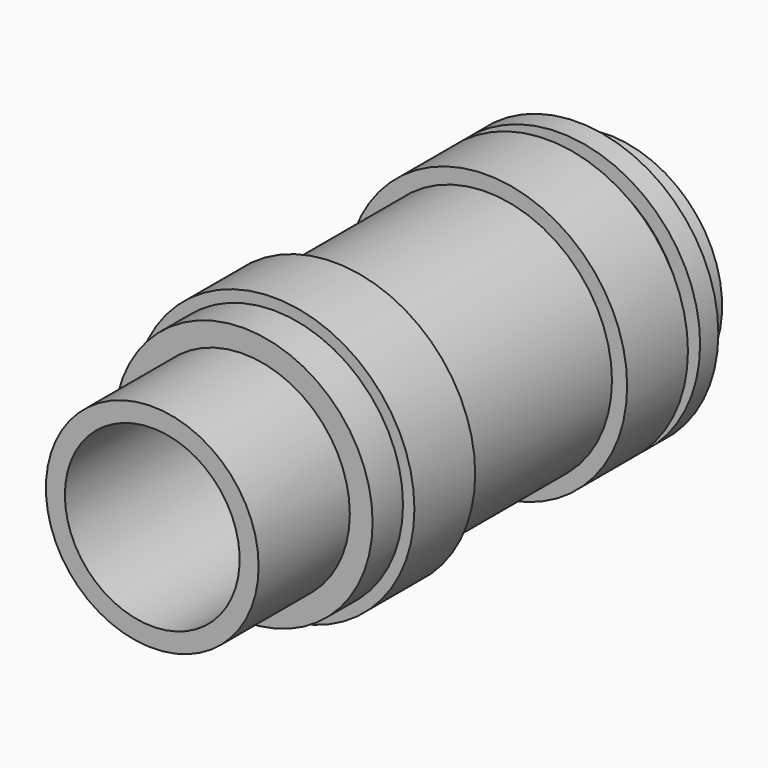
from build123d import *

# Parameters (mm, degrees)
F0_R      = 17
F1_DEPTH  = 5
F2_R      = 14
F3_DEPTH  = 15
F4_R      = 18.5
F5_DEPTH  = 10
F6_R      = 16.5
F7_DEPTH  = 35
F8_R      = 18.5
F9_DEPTH  = 10
F10_R     = 16.5
F11_DEPTH = 2
F12_R     = 18.5
F13_DEPTH = 3
F14_R     = 15
F15_DEPTH = 5
F16_R     = 11.5
F17_DEPTH = 136.4


with BuildPart() as f1:
    # F0 (on Front) → F1 (new body)
    with BuildSketch(Plane.XZ):
        Circle(F0_R)
    extrude(amount=F1_DEPTH)

    # F2 (on face) → F3 (join)
    with BuildSketch(Plane.XZ.offset(5)):
        Circle(F2_R)
    extrude(amount=F3_DEPTH)

    # F4 (on Front) → F5 (join)
    with BuildSketch(Plane.XZ):
        Circle(F4_R)
    extrude(amount=-F5_DEPTH)

    # F6 (on Front) → F7 (join)
    with BuildSketch(Plane.XZ):
        Circle(F6_R)
    extrude(amount=-F7_DEPTH)

    # F8 (on face) → F9 (join)
    with BuildSketch(Plane(origin=(0, 35, 0), x_dir=(-1, 0, 0), z_dir=(0, 1, 0))):
        Circle(F8_R)
    extrude(amount=F9_DEPTH)

    # F10 (on face) → F11 (join)
    with BuildSketch(Plane(origin=(0, 45, 0), x_dir=(-1, 0, 0), z_dir=(0, 1, 0))):
        Circle(F10_R)
    extrude(amount=F11_DEPTH)

    # F12 (on face) → F13 (join)
    with BuildSketch(Plane(origin=(0, 47, 0), x_dir=(-1, 0, 0), z_dir=(0, 1, 0))):
        Circle(F12_R)
    extrude(amount=F13_DEPTH)

    # F14 (on face) → F15 (join)
    with BuildSketch(Plane(origin=(0, 50, 0), x_dir=(-1, 0, 0), z_dir=(0, 1, 0))):
        Circle(F14_R)
    extrude(amount=F15_DEPTH)

    # F16 (on face) → F17 (cut)
    with BuildSketch(Plane(origin=(0, 55, 0), x_dir=(-1, 0, 0), z_dir=(0, 1, 0))):
        Circle(F16_R)
    extrude(amount=-F17_DEPTH, mode=Mode.SUBTRACT)


solid = f1.part
